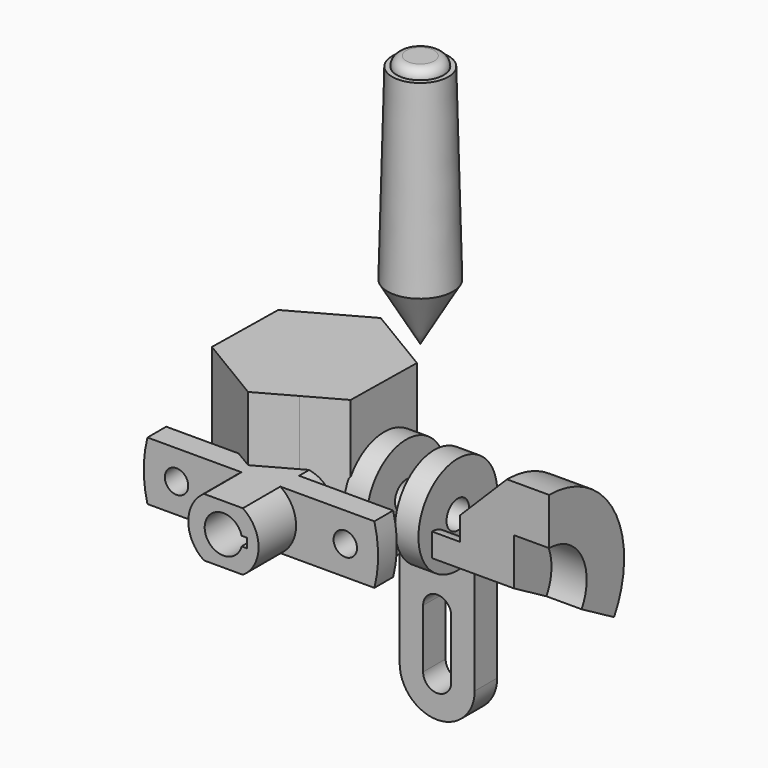
from build123d import *

# Parameters (mm, degrees)
F0_R          = 6
F1_DEPTH      = 16
F3_W          = 12
F3_H          = 46
F4_DEPTH      = 51.001
F6_DEPTH      = 30
F6_DEPTH_BACK = 10
F5_R          = 5
F7_DEPTH      = 10
F11_DEPTH     = 81.001
F15_ANGLE     = 120
F17_DEPTH     = 40


with BuildPart() as f1:
    # F0 (on Right) → F1 (new body, symmetric)
    with BuildSketch(Plane.YZ):
        with BuildLine():
            Line((21, -86), (21, 0))
            ThreePointArc((21, 0), (-16.2665300541, 13.2815661727), (4.2, -20.5757138394))
            ThreePointArc((4.2, -20.5757138394), (7.5298221281, -21.3965107509), (9, -24.4948974278))
            Line((9, -24.4948974278), (9, -86))
            Line((9, -86), (21, -86))
        make_face()
        Circle(F0_R, mode=Mode.SUBTRACT)
    extrude(amount=F1_DEPTH, both=True)

    # F3 (on offset) → F4 (cut, through all)
    with BuildSketch(Plane.XZ.offset(30)):
        with Locations((0, -2)):
            Rectangle(F3_W, F3_H)
        with BuildLine():
            ThreePointArc((6, -45), (0, -39), (-6, -45))
            Line((-6, -45), (-6, -70))
            ThreePointArc((-6, -70), (0, -76), (6, -70))
            Line((6, -70), (6, -45))
        make_face()
        with BuildLine():
            ThreePointArc((2.313e-07, -86), (-11.3137084172, -81.3137085808), (-16, -70))
            Line((-16, -70), (-16, -86))
            Line((-16, -86), (2.313e-07, -86))
        make_face()
        with BuildLine():
            ThreePointArc((16, -70), (11.3137085808, -81.3137084172), (2.313e-07, -86))
            Line((2.313e-07, -86), (16, -86))
            Line((16, -86), (16, -70))
        make_face()
    extrude(amount=-F4_DEPTH, mode=Mode.SUBTRACT)


with BuildPart() as f6:
    # F5 (on offset) → F6 (new body, two sides)
    with BuildSketch(Plane.XZ.offset(30)) as f6_sk:
        with BuildLine():
            ThreePointArc((-36, 8), (-28, 0), (-36, -8))
            Line((-36, -8), (-36, -12.5))
            Line((-36, -12.5), (-27.7084380241, -12.5))
            ThreePointArc((-27.7084380241, -12.5), (-21, 0), (-27.7084380241, 12.5))
            Line((-27.7084380241, 12.5), (-36, 12.5))
            Line((-36, 12.5), (-36, 8))
        make_face()
    extrude(amount=F6_DEPTH)
    extrude(f6_sk.sketch, amount=-F6_DEPTH_BACK)

    # F5 (on offset) → F7 (join)
    with BuildSketch(Plane.XZ.offset(30)):
        with BuildLine():
            ThreePointArc((-27.7084380241, 12.5), (-21, 0), (-27.7084380241, -12.5))
            Line((-27.7084380241, -12.5), (12.4122918276, -12.5))
            ThreePointArc((12.4122918276, -12.5), (14, 0), (12.4122918276, 12.5))
            Line((12.4122918276, 12.5), (-27.7084380241, 12.5))
        make_face()
        Circle(F5_R, mode=Mode.SUBTRACT)
    extrude(amount=F7_DEPTH)

    # F9: F6 across plane


with BuildPart() as f6_1:
    add(f6.part)
    add(f6.part.mirror(Plane(origin=(-36, -40, 10.25), x_dir=(0, -1, 0), z_dir=(-1, 0, 0))))

    # F10 (on face) → F11 (cut, through all)
    with BuildSketch(Plane.XZ.offset(60)):
        with BuildLine():
            Line((-28.2540333076, -2), (-26, -2))
            Line((-26, -2), (-26, 2))
            Line((-26, 2), (-28.2540333076, 2))
            ThreePointArc((-28.2540333076, 2), (-28.0637624299, 1.0080343399), (-28, 0))
            ThreePointArc((-28, 0), (-28.0637624299, -1.0080343399), (-28.2540333076, -2))
        make_face()
    extrude(amount=-F11_DEPTH, mode=Mode.SUBTRACT)


with BuildPart() as f13:
    # F12 (on Front) → F13 (revolve)
    with BuildSketch(Plane.XZ):
        Polygon((0, 83.0847536068), (0, 58.8360423009), (14, 83.0847536068), align=None)
        with BuildLine():
            Line((0, 83.0847536068), (14, 83.0847536068))
            Line((14, 83.0847536068), (12, 163.0847536068))
            Line((12, 163.0847536068), (10, 163.0847536068))
            ThreePointArc((10, 163.0847536068), (8.8284271247, 165.9131807316), (6, 167.0847536068))
            Line((6, 167.0847536068), (0, 167.0847536068))
            Line((0, 167.0847536068), (0, 83.0847536068))
        make_face()
    revolve(axis=Axis((0, 0, 112.9603979538), (0, 0, -1)))


with BuildPart() as f15:
    # F14 (on offset) → F15 (revolve)
    with BuildSketch(Plane.XZ.offset(30)):
        Polygon((28.9800996632, 0), (63.9800996632, 0), (63.9800996632, 20), (78.9800996632, 20), (78.9800996632, 40), (60.9800996632, 40), (40.9800996632, 20), (40.9800996632, 10), (28.9800996632, 10), align=None)
    revolve(axis=Axis((46.4800996632, -30, 0), (-1, 0, 0)), revolution_arc=F15_ANGLE)


with BuildPart() as f17:
    # F16 (on Top) → F17 (new body)
    with BuildSketch(Plane.XY):
        with BuildLine():
            Line((-29.7442835163, 25.7247878067), (-44.5964966021, 34.6361156582))
            Line((-44.5964966021, 34.6361156582), (-59.7400388381, 26.2293860866))
            ThreePointArc((-59.7400388381, 26.2293860866), (-44.6745578282, 29.9957560425), (-29.7442835163, 25.7247878067))
        make_face()
        with BuildLine():
            Line((-14.8920703128, 16.8134598846), (-29.7442835163, 25.7247878067))
            ThreePointArc((-29.7442835163, 25.7247878067), (-19.0731589346, 14.7809644793), (-15.1791561203, 0))
            ThreePointArc((-15.1791561203, 0), (-15.1802171275, -0.2523079579), (-15.183400074, -0.5045980691))
            Line((-15.183400074, -0.5045980691), (-14.8920703128, 16.8134598846))
        make_face()
        with BuildLine():
            ThreePointArc((-15.1791561203, 0), (-19.0731589346, 14.7809644793), (-29.7442835163, 25.7247878067))
            ThreePointArc((-29.7442835163, 25.7247878067), (-44.6745578282, 29.9957560425), (-59.7400388381, 26.2293860866))
            ThreePointArc((-59.7400388381, 26.2293860866), (-70.9039437918, 15.4348728293), (-75.174912175, 0.504597569))
            ThreePointArc((-75.174912175, 0.504597569), (-71.4085418639, -14.5608833355), (-60.6140292033, -25.7247875193))
            ThreePointArc((-60.6140292033, -25.7247875193), (-45.683754357, -29.9957560435), (-30.6182728172, -26.2293857617))
            ThreePointArc((-30.6182728172, -26.2293857617), (-19.4543684053, -15.4348727567), (-15.183400074, -0.5045980691))
            ThreePointArc((-15.183400074, -0.5045980691), (-15.1802171275, -0.2523079579), (-15.1791561203, 0))
        make_face()
        with BuildLine():
            ThreePointArc((-75.174912175, 0.504597569), (-70.9039437918, 15.4348728293), (-59.7400388381, 26.2293860866))
            Line((-59.7400388381, 26.2293860866), (-74.8835824096, 17.8226557736))
            Line((-74.8835824096, 17.8226557736), (-75.174912175, 0.504597569))
        make_face()
        with BuildLine():
            ThreePointArc((-60.6140292033, -25.7247875193), (-71.4085418639, -14.5608833355), (-75.174912175, 0.504597569))
            Line((-75.174912175, 0.504597569), (-75.4662419278, -16.8134598846))
            Line((-75.4662419278, -16.8134598846), (-60.6140292033, -25.7247875193))
        make_face()
        with BuildLine():
            Line((-15.474729831, -17.8226557736), (-15.183400074, -0.5045980691))
            ThreePointArc((-15.183400074, -0.5045980691), (-19.4543684053, -15.4348727567), (-30.6182728172, -26.2293857617))
            Line((-30.6182728172, -26.2293857617), (-15.474729831, -17.8226557736))
        make_face()
        with BuildLine():
            ThreePointArc((-30.6182728172, -26.2293857617), (-45.683754357, -29.9957560435), (-60.6140292033, -25.7247875193))
            Line((-60.6140292033, -25.7247875193), (-45.7618156385, -34.6361156582))
            Line((-45.7618156385, -34.6361156582), (-30.6182728172, -26.2293857617))
        make_face()
    extrude(amount=F17_DEPTH)


solid = Compound([f1.part, f6_1.part, f13.part, f15.part, f17.part])
